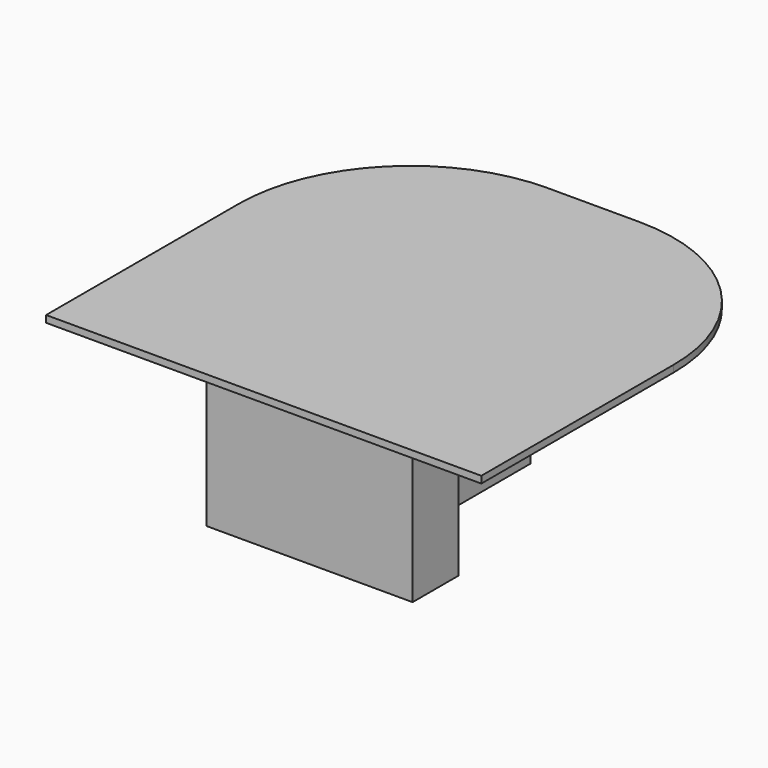
from build123d import *

# Parameters (mm, degrees)
F1_W     = 76
F1_H     = 72
F2_DEPTH = 1.2
F3_R     = 30
F5_DEPTH = 28.8


with BuildPart() as f2:
    # F1 (on offset) → F2 (new body)
    with BuildSketch(Plane.XY.offset(30)):
        with Locations((0, 36)):
            Rectangle(F1_W, F1_H)
    extrude(amount=-F2_DEPTH)

    # F3
    f3_edges = [f2.edges().sort_by_distance(p)[0] for p in [
        (-38, 72, 29.4),
        (38, 72, 29.4),
    ]]
    fillet(f3_edges, radius=F3_R)

    # F4 (on face) → F5 (join, through all)
    with BuildSketch(Plane(origin=(0, 0, 28.8), x_dir=(1, 0, 0), z_dir=(0, 0, -1))):
        Polygon((5, -20), (18, -20), (18, -10), (-18, -10), (-18, -20), (-5, -20), (-5, -52), (5, -52), align=None)
        Polygon((3, -18), (3, -50), (-3, -50), (-3, -18), (-16, -18), (-16, -12), (16, -12), (16, -18), align=None, mode=Mode.SUBTRACT)
    extrude(amount=F5_DEPTH)


solid = f2.part
